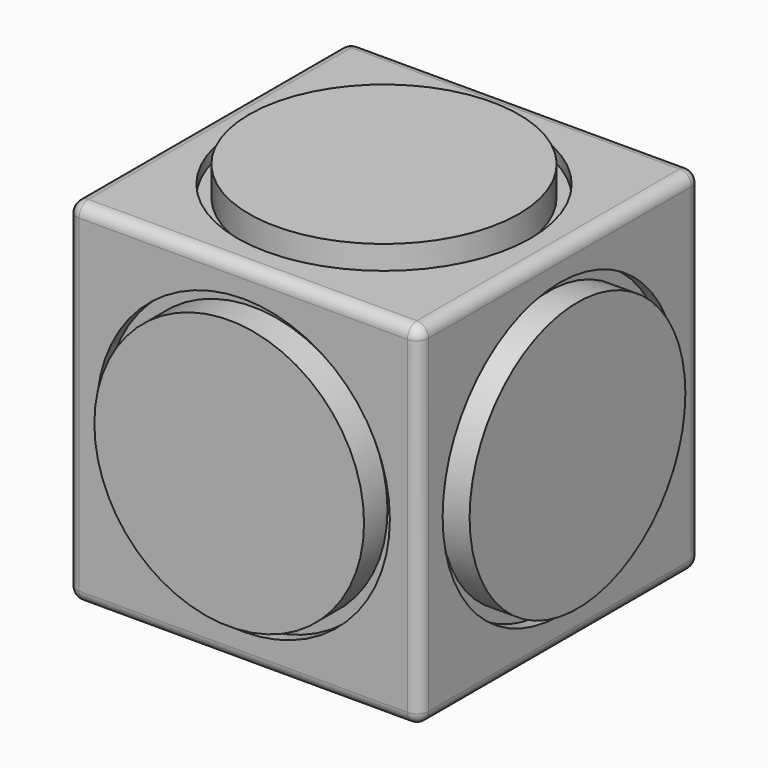
from build123d import *

# Parameters (mm, degrees)
F0_W      = 76.2
F0_H      = 76.2
F1_DEPTH  = 38.1
F2_R      = 2.54
F3_R      = 31.75
F4_DEPTH  = 2.54
F5_R      = 29.21
F6_DEPTH  = 6.35
F7_R      = 31.75
F8_DEPTH  = 2.54
F9_R      = 29.21
F10_DEPTH = 6.35
F11_R     = 31.75
F12_DEPTH = 2.54
F13_R     = 31.75
F14_DEPTH = 2.54
F15_R     = 31.75
F16_DEPTH = 2.54
F17_R     = 29.21
F18_DEPTH = 6.35
F19_R     = 29.21
F20_DEPTH = 6.35
F21_R     = 29.21
F22_DEPTH = 6.35


with BuildPart() as f1:
    # F0 (on Top) → F1 (new body, symmetric)
    with BuildSketch(Plane.XY):
        Rectangle(F0_W, F0_H)
    extrude(amount=F1_DEPTH, both=True)

    # F2
    f2_edges = [f1.edges().sort_by_distance(p)[0] for p in [
        (-38.1, 0, 38.1),
        (0, -38.1, 38.1),
        (38.1, 0, 38.1),
        (0, 38.1, 38.1),
        (38.1, -38.1, 0),
        (-38.1, -38.1, 0),
        (0, -38.1, -38.1),
        (0, 38.1, -38.1),
        (-38.1, 38.1, 0),
        (38.1, 38.1, 0),
        (-38.1, 0, -38.1),
        (38.1, 0, -38.1),
    ]]
    fillet(f2_edges, radius=F2_R)

    # F3 (on face) → F4 (cut)
    with BuildSketch(Plane.XY.offset(38.1)):
        Circle(F3_R)
    extrude(amount=-F4_DEPTH, mode=Mode.SUBTRACT)

    # F7 (on face) → F8 (cut)
    with BuildSketch(Plane(origin=(-38.1, 0, 0), x_dir=(0, -1, 0), z_dir=(-1, 0, 0))):
        Circle(F7_R)
    extrude(amount=-F8_DEPTH, mode=Mode.SUBTRACT)

    # F11 (on face) → F12 (cut)
    with BuildSketch(Plane.YZ.offset(38.1)):
        Circle(F11_R)
    extrude(amount=-F12_DEPTH, mode=Mode.SUBTRACT)

    # F13 (on face) → F14 (cut)
    with BuildSketch(Plane(origin=(0, 38.1, 0), x_dir=(-1, 0, 0), z_dir=(0, 1, 0))):
        Circle(F13_R)
    extrude(amount=-F14_DEPTH, mode=Mode.SUBTRACT)

    # F15 (on face) → F16 (cut)
    with BuildSketch(Plane.XZ.offset(38.1)):
        Circle(F15_R)
    extrude(amount=-F16_DEPTH, mode=Mode.SUBTRACT)


with BuildPart() as f6:
    # F5 (on face) → F6 (new body)
    with BuildSketch(Plane.XY.offset(35.56)):
        Circle(F5_R)
    extrude(amount=F6_DEPTH)


with BuildPart() as f10:
    # F9 (on face) → F10 (new body)
    with BuildSketch(Plane(origin=(-35.56, 0, 0), x_dir=(0, -1, 0), z_dir=(-1, 0, 0))):
        Circle(F9_R)
    extrude(amount=F10_DEPTH)


with BuildPart() as f18:
    # F17 (on face) → F18 (new body)
    with BuildSketch(Plane.YZ.offset(35.56)):
        Circle(F17_R)
    extrude(amount=F18_DEPTH)


with BuildPart() as f20:
    # F19 (on face) → F20 (new body)
    with BuildSketch(Plane(origin=(0, 35.56, 0), x_dir=(-1, 0, 0), z_dir=(0, 1, 0))):
        Circle(F19_R)
    extrude(amount=F20_DEPTH)


with BuildPart() as f22:
    # F21 (on face) → F22 (new body)
    with BuildSketch(Plane.XZ.offset(35.56)):
        Circle(F21_R)
    extrude(amount=F22_DEPTH)


solid = Compound([f1.part, f6.part, f10.part, f18.part, f20.part, f22.part])
